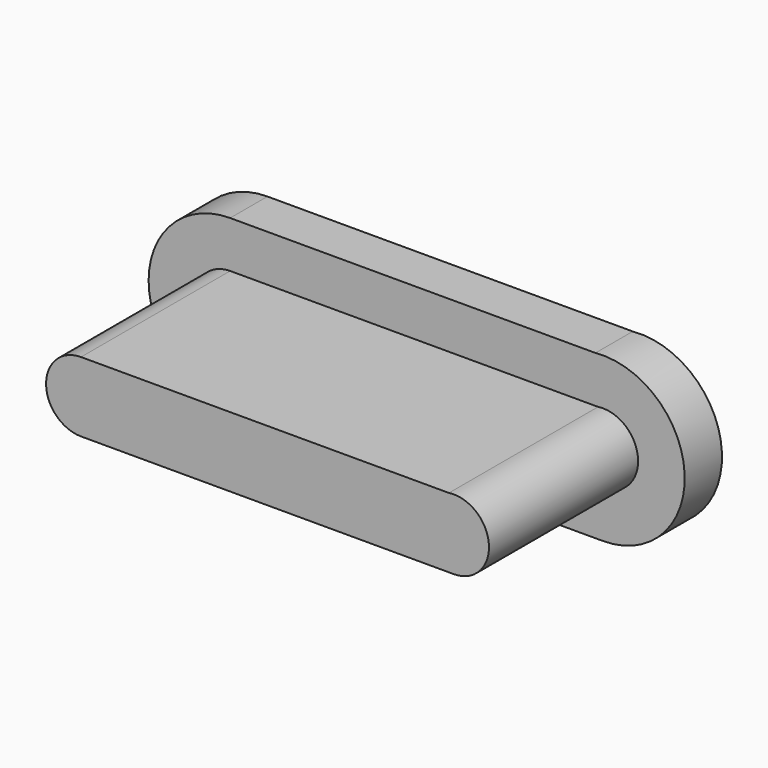
from build123d import *

# Parameters (mm, degrees)
F1_DEPTH = 25.4
F2_DEPTH = 6.35
F3_DEPTH = 6.35


with BuildPart() as f1:
    # F0 (on Front) → F1 (new body)
    with BuildSketch(Plane.XZ):
        with BuildLine():
            ThreePointArc((0, 9.525), (-4.7625, 4.7625), (0, 0))
            Line((0, 0), (50.8, 0))
            ThreePointArc((50.8, 0), (55.574371, 5.123585), (50.127052, 9.525))
            Line((50.127052, 9.525), (0, 9.525))
        make_face()
    extrude(amount=F1_DEPTH)

    # F0 (on Front) → F2 (cut)
    with BuildSketch(Plane.XZ):
        with BuildLine():
            ThreePointArc((0, 15.875), (-11.1125, 4.7625), (0, -6.35))
            Line((0, -6.35), (50.8, -6.35))
            ThreePointArc((50.8, -6.35), (61.92438, 5.300794), (49.772055, 15.875))
            Line((49.772055, 15.875), (0, 15.875))
        make_face()
        with BuildLine():
            Line((50.8, 0), (0, 0))
            ThreePointArc((0, 0), (-4.7625, 4.7625), (0, 9.525))
            Line((0, 9.525), (50.127052, 9.525))
            ThreePointArc((50.127052, 9.525), (55.574371, 5.123585), (50.8, 0))
        make_face(mode=Mode.SUBTRACT)
        with BuildLine():
            ThreePointArc((0, 9.525), (-4.7625, 4.7625), (0, 0))
            Line((0, 0), (50.8, 0))
            ThreePointArc((50.8, 0), (55.574371, 5.123585), (50.127052, 9.525))
            Line((50.127052, 9.525), (0, 9.525))
        make_face()
    extrude(amount=-F2_DEPTH, mode=Mode.SUBTRACT)

    # F0 (on Front) → F3 (join)
    with BuildSketch(Plane.XZ):
        with BuildLine():
            ThreePointArc((0, 15.875), (-11.1125, 4.7625), (0, -6.35))
            Line((0, -6.35), (50.8, -6.35))
            ThreePointArc((50.8, -6.35), (61.92438, 5.300794), (49.772055, 15.875))
            Line((49.772055, 15.875), (0, 15.875))
        make_face()
        with BuildLine():
            Line((50.8, 0), (0, 0))
            ThreePointArc((0, 0), (-4.7625, 4.7625), (0, 9.525))
            Line((0, 9.525), (50.127052, 9.525))
            ThreePointArc((50.127052, 9.525), (55.574371, 5.123585), (50.8, 0))
        make_face(mode=Mode.SUBTRACT)
        with BuildLine():
            ThreePointArc((0, 9.525), (-4.7625, 4.7625), (0, 0))
            Line((0, 0), (50.8, 0))
            ThreePointArc((50.8, 0), (55.574371, 5.123585), (50.127052, 9.525))
            Line((50.127052, 9.525), (0, 9.525))
        make_face()
    extrude(amount=-F3_DEPTH)


solid = f1.part
